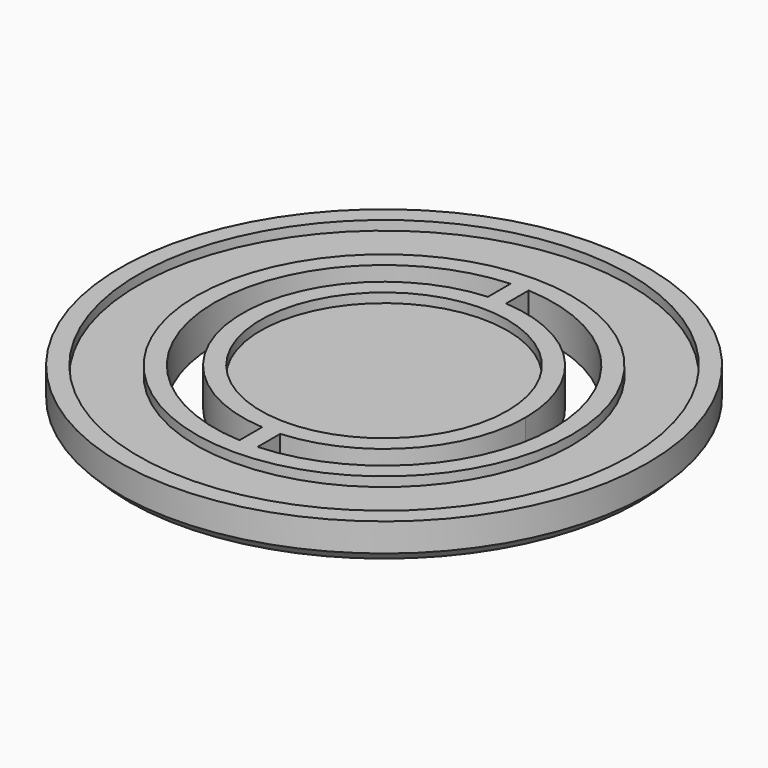
from build123d import *

# Parameters (mm, degrees)
F0_R     = 28
F1_DEPTH = 4
F3_DEPTH = 4
F4_R     = 26.08
F4_R_2   = 19.92
F4_R_3   = 13.08
F5_DEPTH = 1
F6_SIZE  = 1


with BuildPart() as f1:
    # F0 (on Top) → F1 (new body)
    with BuildSketch(Plane.XY):
        Circle(F0_R)
    extrude(amount=F1_DEPTH)

    # F2 (on face) → F3 (cut, through all)
    with BuildSketch(Plane.XY.offset(4)):
        with BuildLine():
            ThreePointArc((-0.96, -14.969248), (-15, 0), (-0.96, 14.969248))
            Line((-0.96, 14.969248), (-0.96, 17.974382))
            ThreePointArc((-0.96, 17.974382), (-18, 0), (-0.96, -17.974382))
            Line((-0.96, -17.974382), (-0.96, -14.969248))
        make_face()
        with BuildLine():
            ThreePointArc((0.96, 14.969248), (10.94075, 10.261579), (15, 0))
            ThreePointArc((15, 0), (10.94075, -10.261579), (0.96, -14.969248))
            Line((0.96, -14.969248), (0.96, -17.974382))
            ThreePointArc((0.96, -17.974382), (13.062925, -12.38386), (18, 0))
            ThreePointArc((18, 0), (13.062925, 12.38386), (0.96, 17.974382))
            Line((0.96, 17.974382), (0.96, 14.969248))
        make_face()
    extrude(amount=-F3_DEPTH, mode=Mode.SUBTRACT)

    # F4 (on face) → F5 (cut)
    with BuildSketch(Plane.XY.offset(4)):
        Circle(F4_R)
        Circle(F4_R_2, mode=Mode.SUBTRACT)
        Circle(F4_R_3)
    extrude(amount=-F5_DEPTH, mode=Mode.SUBTRACT)

    # F6
    f6_edges = [f1.edges().sort_by_distance(p)[0] for p in [
        (-28, 0, 0),
    ]]
    chamfer(f6_edges, length=F6_SIZE)


solid = f1.part
